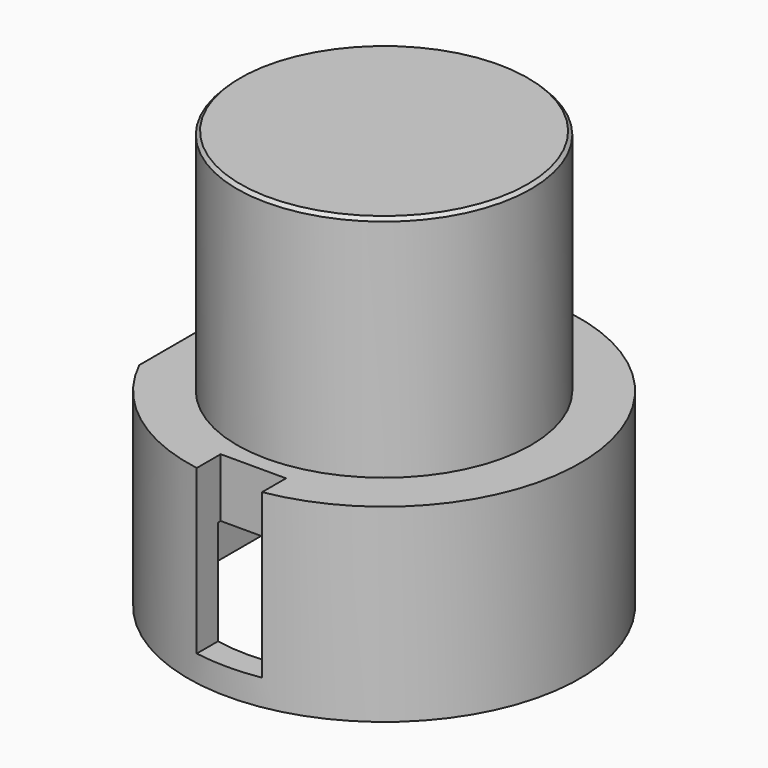
from build123d import *

# Parameters (mm, degrees)
SKETCH_R        = 4.5
PAD_DEPTH       = 7
SKETCH001_R     = 6
PAD001_DEPTH    = 5.8
SKETCH002_W     = 2
SKETCH002_H     = 10
POCKET_DEPTH    = 7
CHAMFER_SIZE    = 0.1
SKETCH003_W     = 2
SKETCH003_H     = 2
POCKET001_DEPTH = 5
POCKET002_DEPTH = 4


with BuildPart() as part:
    # Sketch → Pad (new body)
    with BuildSketch(Plane.XY):
        Circle(SKETCH_R)
    extrude(amount=PAD_DEPTH)

    # Sketch001 (on Face2 of Pad) → Pad001 (join)
    with BuildSketch(Plane(origin=(0, 0, 0), x_dir=(1, 0, 0), z_dir=(0, 0, -1))):
        Circle(SKETCH001_R)
    extrude(amount=PAD001_DEPTH)

    # Sketch002 (on Face2 of Pad001) → Pocket (cut)
    with BuildSketch(Plane.XY):
        with Locations((-6.4, 0)):
            Rectangle(SKETCH002_W, SKETCH002_H)
    extrude(amount=-POCKET_DEPTH, mode=Mode.SUBTRACT)

    # Chamfer
    chamfer_edges = [part.edges().sort_by_distance(p)[0] for p in [
        (-4.5, 0, 7),
    ]]
    chamfer(chamfer_edges, length=CHAMFER_SIZE)

    # Sketch003 (on Face3 of Chamfer) → Pocket001 (cut)
    with BuildSketch(Plane.XY):
        with Locations((0, 6)):
            Rectangle(SKETCH003_W, SKETCH003_H)
        with Locations((0, -6)):
            Rectangle(SKETCH003_W, SKETCH003_H)
    extrude(amount=-POCKET001_DEPTH, mode=Mode.SUBTRACT)

    # Sketch004 (on Face14 of Pocket001) → Pocket002 (cut)
    with BuildSketch(Plane(origin=(0, 0, -5.8), x_dir=(1, 0, 0), z_dir=(0, 0, -1))):
        with BuildLine():
            ThreePointArc((-4.559605, -2.5), (5.2, 0), (-4.559605, 2.5))
            Line((-4.559605, 2.5), (-4.559605, -2.5))
        make_face()
    extrude(amount=-POCKET002_DEPTH, mode=Mode.SUBTRACT)


solid = part.part
